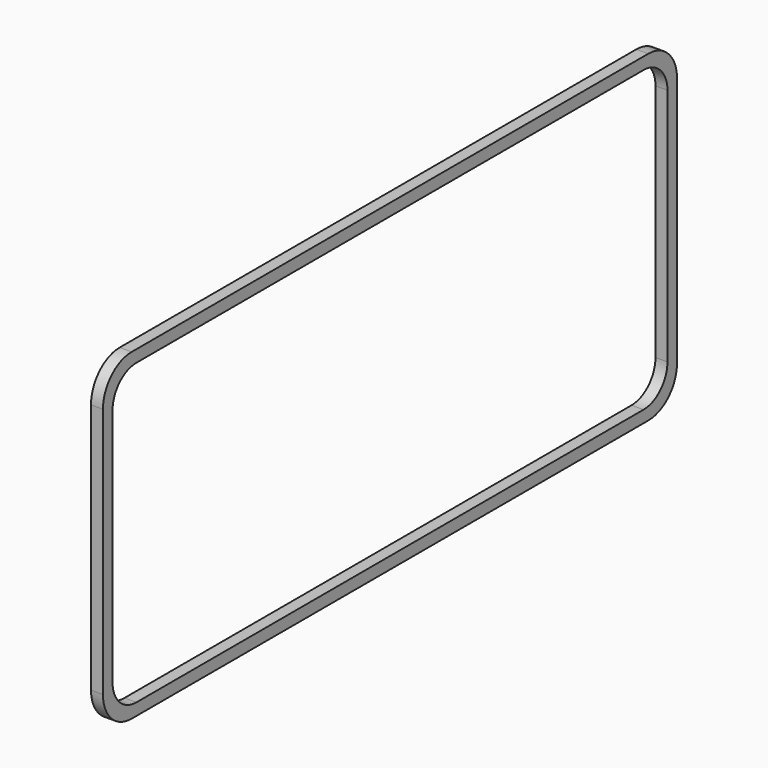
from build123d import *

# Parameters (mm, degrees)
BOX056_W     = 5
BOX056_H     = 58
BOX056_DEPTH = 25
FILLET062_R  = 2.5
BOX007_W     = 1
BOX007_H     = 60
BOX007_DEPTH = 27
FILLET045_R  = 3


with BuildPart() as fillet062:
    # Box056 → Box056 (new body)
    with BuildSketch(Plane(origin=(118, 56, 86), x_dir=(1, 0, 0), z_dir=(0, 0, 1))):
        with Locations((2.5, 29)):
            Rectangle(BOX056_W, BOX056_H)
    extrude(amount=BOX056_DEPTH)

    # Fillet062
    fillet062_edges = [fillet062.edges().sort_by_distance(p)[0] for p in [
        (120.5, 56, 86),
        (120.5, 56, 111),
        (120.5, 114, 86),
        (120.5, 114, 111),
    ]]
    fillet(fillet062_edges, radius=FILLET062_R)


with BuildPart() as cut042:
    # Box007 → Box007 (new body)
    with BuildSketch(Plane(origin=(118, 55, 85), x_dir=(1, 0, 0), z_dir=(0, 0, 1))):
        with Locations((0.5, 30)):
            Rectangle(BOX007_W, BOX007_H)
    extrude(amount=BOX007_DEPTH)

    # Fillet045
    fillet045_edges = [cut042.edges().sort_by_distance(p)[0] for p in [
        (118.5, 55, 85),
        (118.5, 55, 112),
        (118.5, 115, 85),
        (118.5, 115, 112),
    ]]
    fillet(fillet045_edges, radius=FILLET045_R)

    # Cut042: cut Fillet062
    add(fillet062.part, mode=Mode.SUBTRACT)


solid = cut042.part
